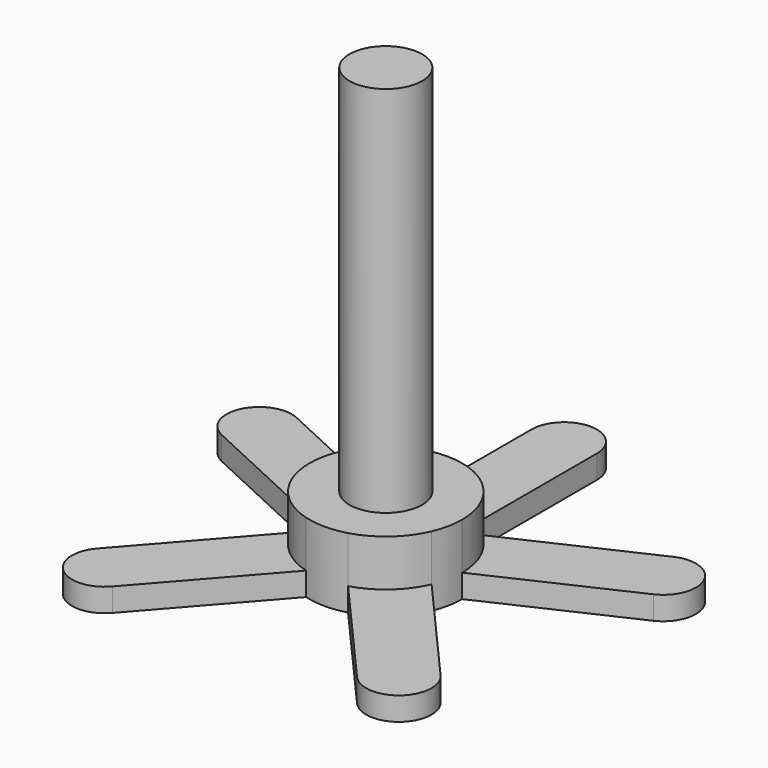
from build123d import *

# Parameters (mm, degrees)
F1_DEPTH = 6.35
F2_DEPTH = 19.05
F3_R     = 9.89756
F4_DEPTH = 101.6


with BuildPart() as f1:
    # F0 (on Top) → F1 (new body)
    with BuildSketch(Plane.XY):
        with BuildLine():
            ThreePointArc((-20.792348, 0), (-18.795878, 8.890258), (-13.189869, 16.073241))
            Line((-13.189869, 16.073241), (-51.273122, 33.732253))
            ThreePointArc((-51.273122, 33.732253), (-63.07801, 29.406884), (-58.752641, 17.601996))
            Line((-58.752641, 17.601996), (-20.792348, 0))
        make_face()
        with BuildLine():
            ThreePointArc((-8.89, 18.796), (0, 20.792348), (8.89, 18.796))
            Line((8.89, 18.796), (8.89, 60.706))
            ThreePointArc((8.89, 60.706), (6.286179, 66.992179), (0, 69.596))
            ThreePointArc((0, 69.596), (-6.286179, 66.992179), (-8.89, 60.706))
            Line((-8.89, 60.706), (-8.89, 18.796))
        make_face()
        with BuildLine():
            ThreePointArc((13.189869, 16.073241), (18.795878, 8.890258), (20.792348, 0))
            Line((20.792348, 0), (58.752641, 17.601996))
            ThreePointArc((58.752641, 17.601996), (63.07801, 29.406884), (51.273122, 33.732253))
            Line((51.273122, 33.732253), (13.189869, 16.073241))
        make_face()
        with BuildLine():
            Line((46.725719, -39.761259), (19.080166, -8.262505))
            ThreePointArc((19.080166, -8.262505), (13.715661, -15.626976), (5.717509, -19.990793))
            Line((5.717509, -19.990793), (33.305679, -51.424164))
            ThreePointArc((33.305679, -51.424164), (45.875688, -52.335567), (46.725719, -39.761259))
        make_face()
        with BuildLine():
            Line((-33.305679, -51.424164), (-5.717509, -19.990793))
            ThreePointArc((-5.717509, -19.990793), (-13.715661, -15.626976), (-19.080166, -8.262505))
            Line((-19.080166, -8.262505), (-46.725719, -39.761259))
            ThreePointArc((-46.725719, -39.761259), (-45.875688, -52.335567), (-33.305679, -51.424164))
        make_face()
    extrude(amount=F1_DEPTH)


with BuildPart() as f2:
    # F0 (on Top) → F2 (new body)
    with BuildSketch(Plane.XY):
        with BuildLine():
            ThreePointArc((19.080166, -8.262505), (20.359803, -4.219021), (20.792348, 0))
            ThreePointArc((20.792348, 0), (18.795878, 8.890258), (13.189869, 16.073241))
            ThreePointArc((13.189869, 16.073241), (11.123556, 17.566679), (8.89, 18.796))
            ThreePointArc((8.89, 18.796), (0, 20.792348), (-8.89, 18.796))
            ThreePointArc((-8.89, 18.796), (-11.123556, 17.566679), (-13.189869, 16.073241))
            ThreePointArc((-13.189869, 16.073241), (-18.795878, 8.890258), (-20.792348, 0))
            ThreePointArc((-20.792348, 0), (-20.359803, -4.219021), (-19.080166, -8.262505))
            ThreePointArc((-19.080166, -8.262505), (-13.715661, -15.626976), (-5.717509, -19.990793))
            ThreePointArc((-5.717509, -19.990793), (0, -20.792348), (5.717509, -19.990793))
            ThreePointArc((5.717509, -19.990793), (13.715661, -15.626976), (19.080166, -8.262505))
        make_face()
    extrude(amount=F2_DEPTH)

    # F3 (on face) → F4 (join)
    with BuildSketch(Plane.XY.offset(19.05)):
        Circle(F3_R)
    extrude(amount=F4_DEPTH)


solid = Compound([f1.part, f2.part])
